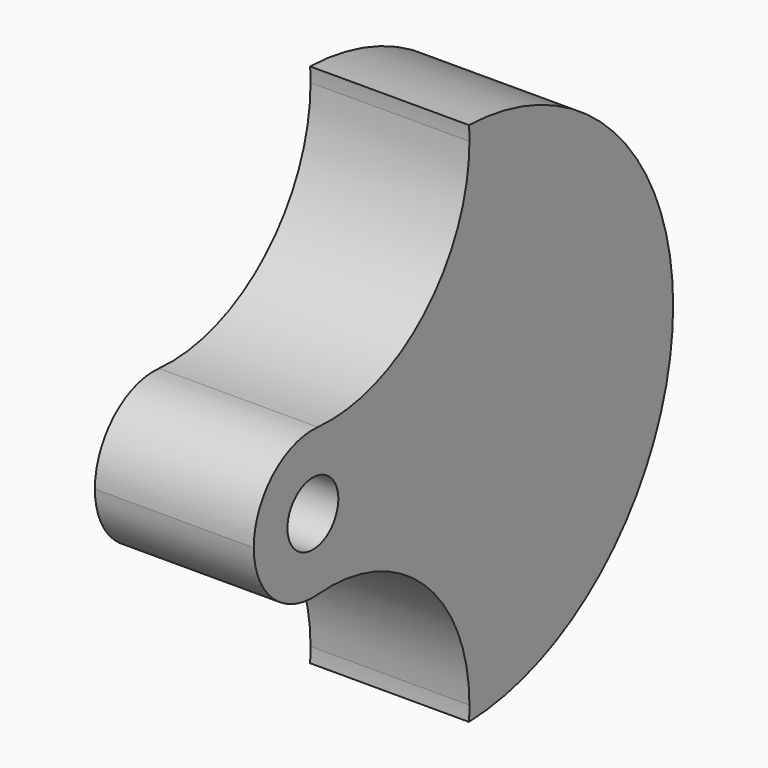
from build123d import *

# Parameters (mm, degrees)
F1_DEPTH = 12.7


with BuildPart() as f1:
    # F0 (on Right) → F1 (new body)
    with BuildSketch(Plane.YZ):
        with BuildLine():
            ThreePointArc((0.488564857, 5.885255698), (4.3451208276, 3.9993568537), (5.9055, 0))
            Line((5.9055, 0), (35.9918, 0))
            ThreePointArc((35.9918, 0), (30.0525244802, 14.6370582333), (15.5932935183, 20.9970195081))
            ThreePointArc((15.5932935183, 20.9970195081), (15.6296763666, 20.4153544005), (15.6418109969, 19.8326788821))
            ThreePointArc((15.6418109969, 19.8326788821), (11.1244567157, 9.5352097506), (0.488564857, 5.885255698))
        make_face()
        with BuildLine():
            Line((35.9918, 0), (5.9055, 0))
            ThreePointArc((5.9055, 0), (4.3451208206, -3.9993568613), (0.4885648365, -5.8852556997))
            ThreePointArc((0.4885648365, -5.8852556997), (11.1244567081, -9.5352097437), (15.6418109969, -19.8326788821))
            ThreePointArc((15.6418109969, -19.8326788821), (15.6296763666, -20.4153544005), (15.5932935183, -20.9970195081))
            ThreePointArc((15.5932935183, -20.9970195081), (30.0525244802, -14.6370582333), (35.9918, 0))
        make_face()
        with BuildLine():
            Line((5.9055, 0), (2.54, 0))
            ThreePointArc((2.54, 0), (0, -2.54), (-2.54, 0))
            Line((-2.54, 0), (-5.9055, 0))
            ThreePointArc((-5.9055, 0), (-3.9993568613, -4.3451208206), (0.4885648365, -5.8852556997))
            ThreePointArc((0.4885648365, -5.8852556997), (4.3451208206, -3.9993568613), (5.9055, 0))
        make_face()
        with BuildLine():
            ThreePointArc((-2.54, 0), (0, 2.54), (2.54, 0))
            Line((2.54, 0), (5.9055, 0))
            ThreePointArc((5.9055, 0), (4.3451208276, 3.9993568537), (0.488564857, 5.885255698))
            ThreePointArc((0.488564857, 5.885255698), (-3.9993568537, 4.3451208276), (-5.9055, 0))
            Line((-5.9055, 0), (-2.54, 0))
        make_face()
    extrude(amount=F1_DEPTH)


solid = f1.part
